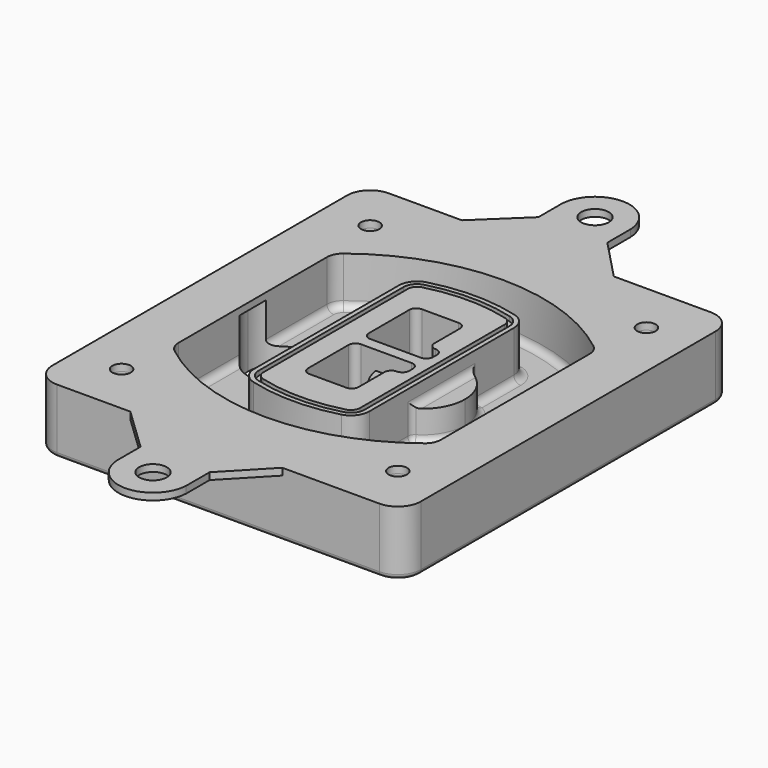
from build123d import *

# Parameters (mm, degrees)
F0_R      = 4
F1_DEPTH  = 25
F2_DEPTH  = 3
F3_DEPTH  = 18
F5_DEPTH  = 21
F6_DEPTH  = 2
F8_DEPTH  = 20
F9_DEPTH  = 16
F10_DEPTH = 25
F7_R      = 6
F7_R_2    = 4
F11_DEPTH = 6
F13_DEPTH = 9
F14_R     = 3
F15_R     = 2
F16_R     = 4
F17_R     = 6
F18_DEPTH = 3


with BuildPart() as f1:
    # F0 (on Top) → F1 (new body)
    with BuildSketch(Plane.XY):
        with BuildLine():
            ThreePointArc((14.05, 38.3825811321), (16.9789321881, 31.3115133202), (24.05, 28.3825811321))
            Line((24.05, 28.3825811321), (164.05, 28.3825811321))
            ThreePointArc((164.05, 28.3825811321), (171.1210678119, 31.3115133202), (174.05, 38.3825811321))
            Line((174.05, 38.3825811321), (174.05, 198.3825811321))
            ThreePointArc((174.05, 198.3825811321), (171.1210678119, 205.4536489439), (164.05, 208.3825811321))
            Line((164.05, 208.3825811321), (24.05, 208.3825811321))
            ThreePointArc((24.05, 208.3825811321), (16.9789321881, 205.4536489439), (14.05, 198.3825811321))
            Line((14.05, 198.3825811321), (14.05, 38.3825811321))
        make_face()
        with Locations((34.05, 50.8825811321)):
            Circle(F0_R, mode=Mode.SUBTRACT)
        with Locations((154.05, 50.8825811321)):
            Circle(F0_R, mode=Mode.SUBTRACT)
        with BuildLine():
            ThreePointArc((30.05, 158.6760234193), (31.4679615202, 164.8154295545), (35.4346153846, 169.7112011673))
            ThreePointArc((35.4346153846, 169.7112011673), (94.05, 189.8825811321), (152.6653846154, 169.7112011673))
            ThreePointArc((152.6653846154, 169.7112011673), (156.6320384798, 164.8154295545), (158.05, 158.6760234193))
            Line((158.05, 158.6760234193), (158.05, 78.0891388448))
            ThreePointArc((158.05, 78.0891388448), (156.6320384798, 71.9497327097), (152.6653846154, 67.0539610969))
            ThreePointArc((152.6653846154, 67.0539610969), (94.05, 46.8825811321), (35.4346153846, 67.0539610969))
            ThreePointArc((35.4346153846, 67.0539610969), (31.4679615202, 71.9497327097), (30.05, 78.0891388448))
            Line((30.05, 78.0891388448), (30.05, 158.6760234193))
        make_face(mode=Mode.SUBTRACT)
        with Locations((34.05, 185.8825811321)):
            Circle(F0_R, mode=Mode.SUBTRACT)
        with Locations((154.05, 185.8825811321)):
            Circle(F0_R, mode=Mode.SUBTRACT)
        with BuildLine():
            ThreePointArc((152.6653846154, 169.7112011673), (94.05, 189.8825811321), (35.4346153846, 169.7112011673))
            ThreePointArc((35.4346153846, 169.7112011673), (31.4679615202, 164.8154295545), (30.05, 158.6760234193))
            Line((30.05, 158.6760234193), (30.05, 78.0891388448))
            ThreePointArc((30.05, 78.0891388448), (31.4679615202, 71.9497327097), (35.4346153846, 67.0539610969))
            ThreePointArc((35.4346153846, 67.0539610969), (94.05, 46.8825811321), (152.6653846154, 67.0539610969))
            ThreePointArc((152.6653846154, 67.0539610969), (156.6320384798, 71.9497327097), (158.05, 78.0891388448))
            Line((158.05, 78.0891388448), (158.05, 158.6760234193))
            ThreePointArc((158.05, 158.6760234193), (156.6320384798, 164.8154295545), (152.6653846154, 169.7112011673))
        make_face()
        with BuildLine():
            Line((34.05, 78.0891388448), (34.05, 158.6760234193))
            ThreePointArc((34.05, 158.6760234193), (35.0628296573, 163.0613135158), (37.8961538462, 166.5582932393))
            ThreePointArc((37.8961538462, 166.5582932393), (94.05, 185.8825811321), (150.2038461538, 166.5582932393))
            ThreePointArc((150.2038461538, 166.5582932393), (153.0371703427, 163.0613135158), (154.05, 158.6760234193))
            Line((154.05, 158.6760234193), (154.05, 78.0891388448))
            ThreePointArc((154.05, 78.0891388448), (153.0371703427, 73.7038487483), (150.2038461538, 70.2068690248))
            ThreePointArc((150.2038461538, 70.2068690248), (94.05, 50.8825811321), (37.8961538462, 70.2068690248))
            ThreePointArc((37.8961538462, 70.2068690248), (35.0628296573, 73.7038487483), (34.05, 78.0891388448))
        make_face(mode=Mode.SUBTRACT)
        with BuildLine():
            ThreePointArc((37.8961538462, 166.5582932393), (35.0628296573, 163.0613135158), (34.05, 158.6760234193))
            Line((34.05, 158.6760234193), (34.05, 78.0891388448))
            ThreePointArc((34.05, 78.0891388448), (35.0628296573, 73.7038487483), (37.8961538462, 70.2068690248))
            ThreePointArc((37.8961538462, 70.2068690248), (94.05, 50.8825811321), (150.2038461538, 70.2068690248))
            ThreePointArc((150.2038461538, 70.2068690248), (153.0371703427, 73.7038487483), (154.05, 78.0891388448))
            Line((154.05, 78.0891388448), (154.05, 158.6760234193))
            ThreePointArc((154.05, 158.6760234193), (153.0371703427, 163.0613135158), (150.2038461538, 166.5582932393))
            ThreePointArc((150.2038461538, 166.5582932393), (94.05, 185.8825811321), (37.8961538462, 166.5582932393))
        make_face()
        with BuildLine():
            ThreePointArc((148.3576923077, 164.1936122933), (150.3410192399, 161.7457264869), (151.05, 158.6760234193))
            Line((151.05, 158.6760234193), (151.05, 78.0891388448))
            ThreePointArc((151.05, 78.0891388448), (150.3410192399, 75.0194357772), (148.3576923077, 72.5715499708))
            ThreePointArc((148.3576923077, 72.5715499708), (94.05, 53.8825811321), (39.7423076923, 72.5715499708))
            ThreePointArc((39.7423076923, 72.5715499708), (37.7589807601, 75.0194357772), (37.05, 78.0891388448))
            Line((37.05, 78.0891388448), (37.05, 158.6760234193))
            ThreePointArc((37.05, 158.6760234193), (37.7589807601, 161.7457264869), (39.7423076923, 164.1936122933))
            ThreePointArc((39.7423076923, 164.1936122933), (94.05, 182.8825811321), (148.3576923077, 164.1936122933))
        make_face(mode=Mode.SUBTRACT)
        with BuildLine():
            Line((151.05, 78.0891388448), (151.05, 158.6760234193))
            ThreePointArc((151.05, 158.6760234193), (150.3410192399, 161.7457264869), (148.3576923077, 164.1936122933))
            ThreePointArc((148.3576923077, 164.1936122933), (94.05, 182.8825811321), (39.7423076923, 164.1936122933))
            ThreePointArc((39.7423076923, 164.1936122933), (37.7589807601, 161.7457264869), (37.05, 158.6760234193))
            Line((37.05, 158.6760234193), (37.05, 78.0891388448))
            ThreePointArc((37.05, 78.0891388448), (37.7589807601, 75.0194357772), (39.7423076923, 72.5715499708))
            ThreePointArc((39.7423076923, 72.5715499708), (94.05, 53.8825811321), (148.3576923077, 72.5715499708))
            ThreePointArc((148.3576923077, 72.5715499708), (150.3410192399, 75.0194357772), (151.05, 78.0891388448))
        make_face()
    extrude(amount=-F1_DEPTH)

    # F0 (on Top) → F2 (join)
    with BuildSketch(Plane.XY):
        with BuildLine():
            ThreePointArc((37.8961538462, 166.5582932393), (35.0628296573, 163.0613135158), (34.05, 158.6760234193))
            Line((34.05, 158.6760234193), (34.05, 78.0891388448))
            ThreePointArc((34.05, 78.0891388448), (35.0628296573, 73.7038487483), (37.8961538462, 70.2068690248))
            ThreePointArc((37.8961538462, 70.2068690248), (94.05, 50.8825811321), (150.2038461538, 70.2068690248))
            ThreePointArc((150.2038461538, 70.2068690248), (153.0371703427, 73.7038487483), (154.05, 78.0891388448))
            Line((154.05, 78.0891388448), (154.05, 158.6760234193))
            ThreePointArc((154.05, 158.6760234193), (153.0371703427, 163.0613135158), (150.2038461538, 166.5582932393))
            ThreePointArc((150.2038461538, 166.5582932393), (94.05, 185.8825811321), (37.8961538462, 166.5582932393))
        make_face()
        with BuildLine():
            ThreePointArc((148.3576923077, 164.1936122933), (150.3410192399, 161.7457264869), (151.05, 158.6760234193))
            Line((151.05, 158.6760234193), (151.05, 78.0891388448))
            ThreePointArc((151.05, 78.0891388448), (150.3410192399, 75.0194357772), (148.3576923077, 72.5715499708))
            ThreePointArc((148.3576923077, 72.5715499708), (94.05, 53.8825811321), (39.7423076923, 72.5715499708))
            ThreePointArc((39.7423076923, 72.5715499708), (37.7589807601, 75.0194357772), (37.05, 78.0891388448))
            Line((37.05, 78.0891388448), (37.05, 158.6760234193))
            ThreePointArc((37.05, 158.6760234193), (37.7589807601, 161.7457264869), (39.7423076923, 164.1936122933))
            ThreePointArc((39.7423076923, 164.1936122933), (94.05, 182.8825811321), (148.3576923077, 164.1936122933))
        make_face(mode=Mode.SUBTRACT)
    extrude(amount=F2_DEPTH)

    # F0 (on Top) → F3 (cut)
    with BuildSketch(Plane.XY):
        with BuildLine():
            Line((151.05, 78.0891388448), (151.05, 158.6760234193))
            ThreePointArc((151.05, 158.6760234193), (150.3410192399, 161.7457264869), (148.3576923077, 164.1936122933))
            ThreePointArc((148.3576923077, 164.1936122933), (94.05, 182.8825811321), (39.7423076923, 164.1936122933))
            ThreePointArc((39.7423076923, 164.1936122933), (37.7589807601, 161.7457264869), (37.05, 158.6760234193))
            Line((37.05, 158.6760234193), (37.05, 78.0891388448))
            ThreePointArc((37.05, 78.0891388448), (37.7589807601, 75.0194357772), (39.7423076923, 72.5715499708))
            ThreePointArc((39.7423076923, 72.5715499708), (94.05, 53.8825811321), (148.3576923077, 72.5715499708))
            ThreePointArc((148.3576923077, 72.5715499708), (150.3410192399, 75.0194357772), (151.05, 78.0891388448))
        make_face()
    extrude(amount=-F3_DEPTH, mode=Mode.SUBTRACT)

    # F4 (on face) → F5 (join, through all)
    with BuildSketch(Plane.XY.offset(3)):
        with BuildLine():
            ThreePointArc((69.05, 79.13605345), (70.6988454002, 74.2716074128), (74.9657088123, 71.4123412437))
            ThreePointArc((74.9657088123, 71.4123412437), (94.05, 68.8825811321), (113.1342911877, 71.4123412437))
            ThreePointArc((113.1342911877, 71.4123412437), (117.4011545998, 74.2716074128), (119.05, 79.13605345))
            Line((119.05, 79.13605345), (119.05, 157.6291088141))
            ThreePointArc((119.05, 157.6291088141), (117.4011545998, 162.4935548514), (113.1342911877, 165.3528210204))
            ThreePointArc((113.1342911877, 165.3528210204), (94.05, 167.8825811321), (74.9657088123, 165.3528210204))
            ThreePointArc((74.9657088123, 165.3528210204), (70.6988454002, 162.4935548514), (69.05, 157.6291088141))
            Line((69.05, 157.6291088141), (69.05, 79.13605345))
        make_face()
        with BuildLine():
            ThreePointArc((112.6132183908, 163.4218929688), (115.8133659499, 161.2774433421), (117.05, 157.6291088141))
            Line((117.05, 157.6291088141), (117.05, 79.13605345))
            ThreePointArc((117.05, 79.13605345), (115.8133659499, 75.4877189221), (112.6132183908, 73.3432692953))
            ThreePointArc((112.6132183908, 73.3432692953), (94.05, 70.8825811321), (75.4867816092, 73.3432692953))
            ThreePointArc((75.4867816092, 73.3432692953), (72.2866340501, 75.4877189221), (71.05, 79.13605345))
            Line((71.05, 79.13605345), (71.05, 157.6291088141))
            ThreePointArc((71.05, 157.6291088141), (72.2866340501, 161.2774433421), (75.4867816092, 163.4218929688))
            ThreePointArc((75.4867816092, 163.4218929688), (94.05, 165.8825811321), (112.6132183908, 163.4218929688))
        make_face(mode=Mode.SUBTRACT)
        with BuildLine():
            Line((117.05, 79.13605345), (117.05, 157.6291088141))
            ThreePointArc((117.05, 157.6291088141), (115.8133659499, 161.2774433421), (112.6132183908, 163.4218929688))
            ThreePointArc((112.6132183908, 163.4218929688), (94.05, 165.8825811321), (75.4867816092, 163.4218929688))
            ThreePointArc((75.4867816092, 163.4218929688), (72.2866340501, 161.2774433421), (71.05, 157.6291088141))
            Line((71.05, 157.6291088141), (71.05, 79.13605345))
            ThreePointArc((71.05, 79.13605345), (72.2866340501, 75.4877189221), (75.4867816092, 73.3432692953))
            ThreePointArc((75.4867816092, 73.3432692953), (94.05, 70.8825811321), (112.6132183908, 73.3432692953))
            ThreePointArc((112.6132183908, 73.3432692953), (115.8133659499, 75.4877189221), (117.05, 79.13605345))
        make_face()
        with BuildLine():
            ThreePointArc((112.0921455939, 161.4909649173), (114.2255772999, 160.0613318328), (115.05, 157.6291088141))
            Line((115.05, 157.6291088141), (115.05, 79.13605345))
            ThreePointArc((115.05, 79.13605345), (114.2255772999, 76.7038304314), (112.0921455939, 75.2741973469))
            ThreePointArc((112.0921455939, 75.2741973469), (94.05, 72.8825811321), (76.0078544061, 75.2741973469))
            ThreePointArc((76.0078544061, 75.2741973469), (73.8744227001, 76.7038304314), (73.05, 79.13605345))
            Line((73.05, 79.13605345), (73.05, 157.6291088141))
            ThreePointArc((73.05, 157.6291088141), (73.8744227001, 160.0613318328), (76.0078544061, 161.4909649173))
            ThreePointArc((76.0078544061, 161.4909649173), (94.05, 163.8825811321), (112.0921455939, 161.4909649173))
        make_face(mode=Mode.SUBTRACT)
        with BuildLine():
            Line((115.05, 79.13605345), (115.05, 157.6291088141))
            ThreePointArc((115.05, 157.6291088141), (114.2255772999, 160.0613318328), (112.0921455939, 161.4909649173))
            ThreePointArc((112.0921455939, 161.4909649173), (94.05, 163.8825811321), (76.0078544061, 161.4909649173))
            ThreePointArc((76.0078544061, 161.4909649173), (73.8744227001, 160.0613318328), (73.05, 157.6291088141))
            Line((73.05, 157.6291088141), (73.05, 79.13605345))
            ThreePointArc((73.05, 79.13605345), (73.8744227001, 76.7038304314), (76.0078544061, 75.2741973469))
            ThreePointArc((76.0078544061, 75.2741973469), (94.05, 72.8825811321), (112.0921455939, 75.2741973469))
            ThreePointArc((112.0921455939, 75.2741973469), (114.2255772999, 76.7038304314), (115.05, 79.13605345))
        make_face()
        with BuildLine():
            Line((86.05, 115.8825811321), (108.05, 115.8825811321))
            ThreePointArc((108.05, 115.8825811321), (110.1713203436, 115.0039014756), (111.05, 112.8825811321))
            Line((111.05, 112.8825811321), (111.05, 110.8825811321))
            ThreePointArc((111.05, 110.8825811321), (110.1713203436, 108.7612607885), (108.05, 107.8825811321))
            ThreePointArc((108.05, 107.8825811321), (105.9286796564, 107.0039014756), (105.05, 104.8825811321))
            Line((105.05, 104.8825811321), (105.05, 90.8825811321))
            ThreePointArc((105.05, 90.8825811321), (104.1713203436, 88.7612607885), (102.05, 87.8825811321))
            Line((102.05, 87.8825811321), (86.05, 87.8825811321))
            ThreePointArc((86.05, 87.8825811321), (83.9286796564, 88.7612607885), (83.05, 90.8825811321))
            Line((83.05, 90.8825811321), (83.05, 112.8825811321))
            ThreePointArc((83.05, 112.8825811321), (83.9286796564, 115.0039014756), (86.05, 115.8825811321))
        make_face(mode=Mode.SUBTRACT)
        with BuildLine():
            ThreePointArc((86.05, 120.8825811321), (83.9286796564, 121.7612607885), (83.05, 123.8825811321))
            Line((83.05, 123.8825811321), (83.05, 145.8825811321))
            ThreePointArc((83.05, 145.8825811321), (83.9286796564, 148.0039014756), (86.05, 148.8825811321))
            Line((86.05, 148.8825811321), (102.05, 148.8825811321))
            ThreePointArc((102.05, 148.8825811321), (104.1713203436, 148.0039014756), (105.05, 145.8825811321))
            Line((105.05, 145.8825811321), (105.05, 131.8825811321))
            ThreePointArc((105.05, 131.8825811321), (105.9286796564, 129.7612607885), (108.05, 128.8825811321))
            ThreePointArc((108.05, 128.8825811321), (110.1713203436, 128.0039014756), (111.05, 125.8825811321))
            Line((111.05, 125.8825811321), (111.05, 123.8825811321))
            ThreePointArc((111.05, 123.8825811321), (110.1713203436, 121.7612607885), (108.05, 120.8825811321))
            Line((108.05, 120.8825811321), (86.05, 120.8825811321))
        make_face(mode=Mode.SUBTRACT)
    extrude(amount=-F5_DEPTH)

    # F4 (on face) → F6 (cut)
    with BuildSketch(Plane.XY.offset(3)):
        with BuildLine():
            Line((117.05, 79.13605345), (117.05, 157.6291088141))
            ThreePointArc((117.05, 157.6291088141), (115.8133659499, 161.2774433421), (112.6132183908, 163.4218929688))
            ThreePointArc((112.6132183908, 163.4218929688), (94.05, 165.8825811321), (75.4867816092, 163.4218929688))
            ThreePointArc((75.4867816092, 163.4218929688), (72.2866340501, 161.2774433421), (71.05, 157.6291088141))
            Line((71.05, 157.6291088141), (71.05, 79.13605345))
            ThreePointArc((71.05, 79.13605345), (72.2866340501, 75.4877189221), (75.4867816092, 73.3432692953))
            ThreePointArc((75.4867816092, 73.3432692953), (94.05, 70.8825811321), (112.6132183908, 73.3432692953))
            ThreePointArc((112.6132183908, 73.3432692953), (115.8133659499, 75.4877189221), (117.05, 79.13605345))
        make_face()
        with BuildLine():
            ThreePointArc((112.0921455939, 161.4909649173), (114.2255772999, 160.0613318328), (115.05, 157.6291088141))
            Line((115.05, 157.6291088141), (115.05, 79.13605345))
            ThreePointArc((115.05, 79.13605345), (114.2255772999, 76.7038304314), (112.0921455939, 75.2741973469))
            ThreePointArc((112.0921455939, 75.2741973469), (94.05, 72.8825811321), (76.0078544061, 75.2741973469))
            ThreePointArc((76.0078544061, 75.2741973469), (73.8744227001, 76.7038304314), (73.05, 79.13605345))
            Line((73.05, 79.13605345), (73.05, 157.6291088141))
            ThreePointArc((73.05, 157.6291088141), (73.8744227001, 160.0613318328), (76.0078544061, 161.4909649173))
            ThreePointArc((76.0078544061, 161.4909649173), (94.05, 163.8825811321), (112.0921455939, 161.4909649173))
        make_face(mode=Mode.SUBTRACT)
    extrude(amount=-F6_DEPTH, mode=Mode.SUBTRACT)

    # F7 (on face) → F8 (join)
    with BuildSketch(Plane(origin=(0, 0, -25), x_dir=(1, 0, 0), z_dir=(0, 0, -1))):
        with BuildLine():
            ThreePointArc((97.33842436, -118.3825811321), (110.8067035675, -104.9143019245), (124.274982775, -118.3825811321))
            Line((124.274982775, -118.3825811321), (129.274982775, -118.3825811321))
            ThreePointArc((129.274982775, -118.3825811321), (110.8067035675, -99.9143019245), (92.33842436, -118.3825811321))
            Line((92.33842436, -118.3825811321), (97.33842436, -118.3825811321))
        make_face()
        with BuildLine():
            Line((97.33842436, -118.3825811321), (124.274982775, -118.3825811321))
            ThreePointArc((124.274982775, -118.3825811321), (110.8067035675, -104.9143019245), (97.33842436, -118.3825811321))
        make_face()
        with BuildLine():
            ThreePointArc((97.33842436, -118.3825811321), (110.8067035675, -131.8508603396), (124.274982775, -118.3825811321))
            Line((124.274982775, -118.3825811321), (97.33842436, -118.3825811321))
        make_face()
        with BuildLine():
            Line((129.274982775, -118.3825811321), (124.274982775, -118.3825811321))
            ThreePointArc((124.274982775, -118.3825811321), (110.8067035675, -131.8508603396), (97.33842436, -118.3825811321))
            Line((97.33842436, -118.3825811321), (92.33842436, -118.3825811321))
            ThreePointArc((92.33842436, -118.3825811321), (110.8067035675, -136.8508603396), (129.274982775, -118.3825811321))
        make_face()
    extrude(amount=-F8_DEPTH)

    # F7 (on face) → F9 (cut)
    with BuildSketch(Plane(origin=(0, 0, -25), x_dir=(1, 0, 0), z_dir=(0, 0, -1))):
        with BuildLine():
            Line((97.33842436, -118.3825811321), (124.274982775, -118.3825811321))
            ThreePointArc((124.274982775, -118.3825811321), (110.8067035675, -104.9143019245), (97.33842436, -118.3825811321))
        make_face()
        with BuildLine():
            ThreePointArc((97.33842436, -118.3825811321), (110.8067035675, -131.8508603396), (124.274982775, -118.3825811321))
            Line((124.274982775, -118.3825811321), (97.33842436, -118.3825811321))
        make_face()
    extrude(amount=-F9_DEPTH, mode=Mode.SUBTRACT)

    # F7 (on face) → F10 (cut)
    with BuildSketch(Plane(origin=(0, 0, -25), x_dir=(1, 0, 0), z_dir=(0, 0, -1))):
        with BuildLine():
            Line((35.0181770675, -118.3825811321), (61.9547354825, -118.3825811321))
            ThreePointArc((61.9547354825, -118.3825811321), (48.486456275, -104.9143019245), (35.0181770675, -118.3825811321))
        make_face()
        with BuildLine():
            ThreePointArc((35.0181770675, -118.3825811321), (48.486456275, -131.8508603396), (61.9547354825, -118.3825811321))
            Line((61.9547354825, -118.3825811321), (35.0181770675, -118.3825811321))
        make_face()
    extrude(amount=-F10_DEPTH, mode=Mode.SUBTRACT)

    # F7 (on face) → F11 (cut)
    with BuildSketch(Plane(origin=(0, 0, -25), x_dir=(1, 0, 0), z_dir=(0, 0, -1))):
        with Locations((154.05, -185.8825811321)):
            Circle(F7_R)
        with Locations((154.05, -185.8825811321)):
            Circle(F7_R_2, mode=Mode.SUBTRACT)
        with Locations((154.05, -185.8825811321)):
            Circle(F7_R)
        with Locations((154.05, -185.8825811321)):
            Circle(F7_R_2, mode=Mode.SUBTRACT)
        with Locations((34.05, -185.8825811321)):
            Circle(F7_R)
        with Locations((34.05, -185.8825811321)):
            Circle(F7_R_2, mode=Mode.SUBTRACT)
        with Locations((34.05, -185.8825811321)):
            Circle(F7_R)
        with Locations((34.05, -185.8825811321)):
            Circle(F7_R_2, mode=Mode.SUBTRACT)
        with Locations((34.05, -50.8825811321)):
            Circle(F7_R)
        with Locations((34.05, -50.8825811321)):
            Circle(F7_R_2, mode=Mode.SUBTRACT)
        with Locations((34.05, -50.8825811321)):
            Circle(F7_R)
        with Locations((34.05, -50.8825811321)):
            Circle(F7_R_2, mode=Mode.SUBTRACT)
        with Locations((154.05, -50.8825811321)):
            Circle(F7_R)
        with Locations((154.05, -50.8825811321)):
            Circle(F7_R_2, mode=Mode.SUBTRACT)
        with Locations((154.05, -50.8825811321)):
            Circle(F7_R)
        with Locations((154.05, -50.8825811321)):
            Circle(F7_R_2, mode=Mode.SUBTRACT)
    extrude(amount=-F11_DEPTH, mode=Mode.SUBTRACT)

    # F12 (on face) → F13 (cut, through all)
    with BuildSketch(Plane(origin=(0, 0, -9), x_dir=(1, 0, 0), z_dir=(0, 0, -1))):
        with BuildLine():
            Line((105.05, -104.8825811321), (105.05, -100.8344273567))
            ThreePointArc((105.05, -100.8344273567), (96.6196536419, -106.5586667507), (92.5084157545, -115.8825811321))
            Line((92.5084157545, -115.8825811321), (97.5724848595, -115.8825811321))
            ThreePointArc((97.5724848595, -115.8825811321), (100.2357188154, -110.0369939039), (105.3036447004, -106.0898642673))
            ThreePointArc((105.3036447004, -106.0898642673), (105.1140958889, -105.4994012441), (105.05, -104.8825811321))
        make_face()
        with BuildLine():
            ThreePointArc((105.3036447004, -130.6752979968), (100.2357188154, -126.7281683602), (97.5724848595, -120.8825811321))
            Line((97.5724848595, -120.8825811321), (92.5084157545, -120.8825811321))
            ThreePointArc((92.5084157545, -120.8825811321), (96.6196536419, -130.2064955134), (105.05, -135.9307349074))
            Line((105.05, -135.9307349074), (105.05, -131.8825811321))
            ThreePointArc((105.05, -131.8825811321), (105.1140958889, -131.26576102), (105.3036447004, -130.6752979968))
        make_face()
        with BuildLine():
            ThreePointArc((105.3036447004, -106.0898642673), (100.2357188154, -110.0369939039), (97.5724848595, -115.8825811321))
            Line((97.5724848595, -115.8825811321), (108.05, -115.8825811321))
            ThreePointArc((108.05, -115.8825811321), (110.1713203436, -115.0039014756), (111.05, -112.8825811321))
            Line((111.05, -112.8825811321), (111.05, -110.8825811321))
            ThreePointArc((111.05, -110.8825811321), (110.1713203436, -108.7612607885), (108.05, -107.8825811321))
            ThreePointArc((108.05, -107.8825811321), (106.4101599782, -107.3947365219), (105.3036447004, -106.0898642673))
        make_face()
        with BuildLine():
            Line((108.05, -120.8825811321), (97.5724848595, -120.8825811321))
            ThreePointArc((97.5724848595, -120.8825811321), (100.2357188154, -126.7281683602), (105.3036447004, -130.6752979968))
            ThreePointArc((105.3036447004, -130.6752979968), (106.4101599782, -129.3704257422), (108.05, -128.8825811321))
            ThreePointArc((108.05, -128.8825811321), (110.1713203436, -128.0039014756), (111.05, -125.8825811321))
            Line((111.05, -125.8825811321), (111.05, -123.8825811321))
            ThreePointArc((111.05, -123.8825811321), (110.1713203436, -121.7612607885), (108.05, -120.8825811321))
        make_face()
    extrude(amount=F13_DEPTH, mode=Mode.SUBTRACT)

    # F14
    f14_edges = [f1.edges().sort_by_distance(p)[0] for p in [
        (37.05, 94.679105, -18),
        (37.05, 142.086057, -18),
        (119.05, 118.382581, -5),
        (119.05, 134.909087, -11.5),
        (119.05, 101.856075, -11.5),
        (119.05, 90.496064, -18),
        (129.274983, 118.382581, -18),
    ]]
    fillet(f14_edges, radius=F14_R)

    # F15
    f15_edges = [f1.edges().sort_by_distance(p)[0] for p in [
        (94.05, 28.382581, -25),
    ]]
    fillet(f15_edges, radius=F15_R)

    # F16 (on face) + F17 (on face) → F18 (join, through all)
    with BuildSketch(Plane.XY):
        with BuildLine():
            Line((14.05, 198.3825811321), (14.05, 38.3825811321))
            ThreePointArc((14.05, 38.3825811321), (16.9789321881, 31.3115133202), (24.05, 28.3825811321))
            Line((24.05, 28.3825811321), (164.05, 28.3825811321))
            ThreePointArc((164.05, 28.3825811321), (171.1210678119, 31.3115133202), (174.05, 38.3825811321))
            Line((174.05, 38.3825811321), (174.05, 198.3825811321))
            ThreePointArc((174.05, 198.3825811321), (171.1210678119, 205.4536489439), (164.05, 208.3825811321))
            Line((164.05, 208.3825811321), (24.05, 208.3825811321))
            ThreePointArc((24.05, 208.3825811321), (16.9789321881, 205.4536489439), (14.05, 198.3825811321))
        make_face()
        with Locations((34.05, 50.8825811321)):
            Circle(F16_R, mode=Mode.SUBTRACT)
        with Locations((154.05, 50.8825811321)):
            Circle(F16_R, mode=Mode.SUBTRACT)
        with BuildLine():
            ThreePointArc((34.05, 158.6760234193), (35.0628296573, 163.0613135158), (37.8961538462, 166.5582932393))
            ThreePointArc((37.8961538462, 166.5582932393), (94.05, 185.8825811321), (150.2038461538, 166.5582932393))
            ThreePointArc((150.2038461538, 166.5582932393), (153.0371703427, 163.0613135158), (154.05, 158.6760234193))
            Line((154.05, 158.6760234193), (154.05, 78.0891388448))
            ThreePointArc((154.05, 78.0891388448), (153.0371703427, 73.7038487483), (150.2038461538, 70.2068690248))
            ThreePointArc((150.2038461538, 70.2068690248), (94.05, 50.8825811321), (37.8961538462, 70.2068690248))
            ThreePointArc((37.8961538462, 70.2068690248), (35.0628296573, 73.7038487483), (34.05, 78.0891388448))
            Line((34.05, 78.0891388448), (34.05, 158.6760234193))
        make_face(mode=Mode.SUBTRACT)
        with Locations((34.05, 185.8825811321)):
            Circle(F16_R, mode=Mode.SUBTRACT)
        with Locations((154.05, 185.8825811321)):
            Circle(F16_R, mode=Mode.SUBTRACT)
    with BuildSketch(Plane.XY):
        with BuildLine():
            Line((121.8747286093, 28.3825811321), (55.8694265783, 28.3825811321))
            Line((55.8694265783, 28.3825811321), (74.6998975277, 10.3825811321))
            Line((74.6998975277, 10.3825811321), (74.6998975277, -2.3027012799))
            ThreePointArc((74.6998975277, -2.3027012799), (89.6842356184, -16.6174188679), (104.6685737091, -2.3027012799))
            Line((104.6685737091, -2.3027012799), (104.6685737091, 10.3825811321))
            Line((104.6685737091, 10.3825811321), (121.8747286093, 28.3825811321))
        make_face()
        with Locations((89.6842356184, -1.6174188679)):
            Circle(F17_R, mode=Mode.SUBTRACT)
        with BuildLine():
            Line((74.6998975277, 226.3825811321), (55.8694265783, 208.3825811321))
            Line((55.8694265783, 208.3825811321), (121.8747286093, 208.3825811321))
            Line((121.8747286093, 208.3825811321), (104.6685737091, 226.3825811321))
            Line((104.6685737091, 226.3825811321), (104.6685737091, 239.067863544))
            ThreePointArc((104.6685737091, 239.067863544), (89.6842356184, 253.3825811321), (74.6998975277, 239.067863544))
            Line((74.6998975277, 239.067863544), (74.6998975277, 226.3825811321))
        make_face()
        with Locations((89.6842356184, 238.3825811321)):
            Circle(F17_R, mode=Mode.SUBTRACT)
    extrude(amount=F18_DEPTH)


solid = f1.part
